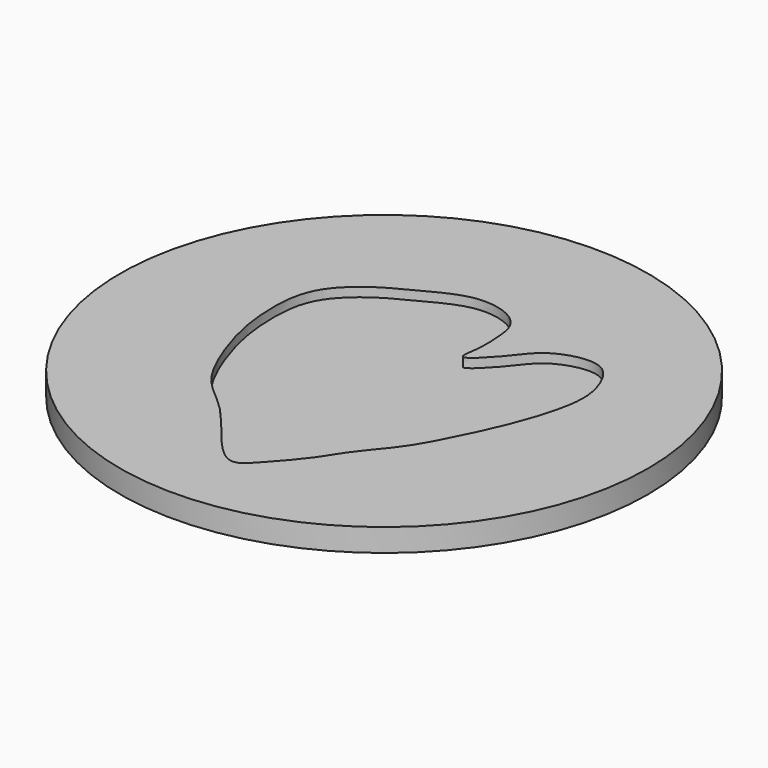
from build123d import *

# Parameters (mm, degrees)
F0_R     = 57.8028086527
F1_DEPTH = 5
F3_DEPTH = 2


with BuildPart() as f1:
    # F0 (on Top) → F1 (new body)
    with BuildSketch(Plane.XY):
        Circle(F0_R)
    extrude(amount=F1_DEPTH)

    # F2 (on face) → F3 (cut)
    with BuildSketch(Plane.XY.offset(5)):
        with BuildLine():
            add(Edge.make_bspline(
                [(0, -42.2526746988), (-3.397293691, -41.3401816823), (-12.5574072275, -27.2112711089), (-22.1398902776, -22.2254639855), (-28.2996041663, -5.840365579), (-29.72804857, 3.3946353181), (-29.6608108612, 15.9647293876), (-20.9053485005, 23.5734815148), (-13.8577233217, 26.9406148102), (-5.1280211737, 31.781758236), (3.2515264573, 30.2891999397), (6.9403581591, 26.4884530818), (7.3254467443, 21.6249481583), (7.6148537905, 16.7352295034), (6.1311793523, 10.0818858998), (13.6196071159, 18.028354202), (16.275516129, 22.2437855489), (22.039270481, 24.9468460309), (27.4051515988, 25.0991330024), (30.6890179246, 22.2141242193), (33.0060540827, 16.2799008135), (32.9270909839, 9.8164989472), (29.8938842561, -0.339252014), (25.6756857667, -9.595132754), (20.4224212945, -19.9807746633), (14.3475429647, -26.3006669374), (10.9568347373, -32.5866189279), (5.0024665958, -39.1385305609), (1.8703927997, -42.7550511559), (0, -42.2526746988)],
                knots=[0, 0, 0, 0, 0.0557502062, 0.1011438863, 0.1532585815, 0.1944434364, 0.2388608781, 0.2815824298, 0.3185775587, 0.359195593, 0.3959518525, 0.4244231224, 0.4523080978, 0.4832163025, 0.5081352913, 0.5439856396, 0.5758528052, 0.6075422282, 0.6368643182, 0.6629196511, 0.6949962521, 0.7281416072, 0.770113978, 0.8125043331, 0.8568565398, 0.8950944043, 0.9298155241, 0.9693065146, 1, 1, 1, 1], degree=3))
        make_face()
    extrude(amount=-F3_DEPTH, mode=Mode.SUBTRACT)


solid = f1.part
